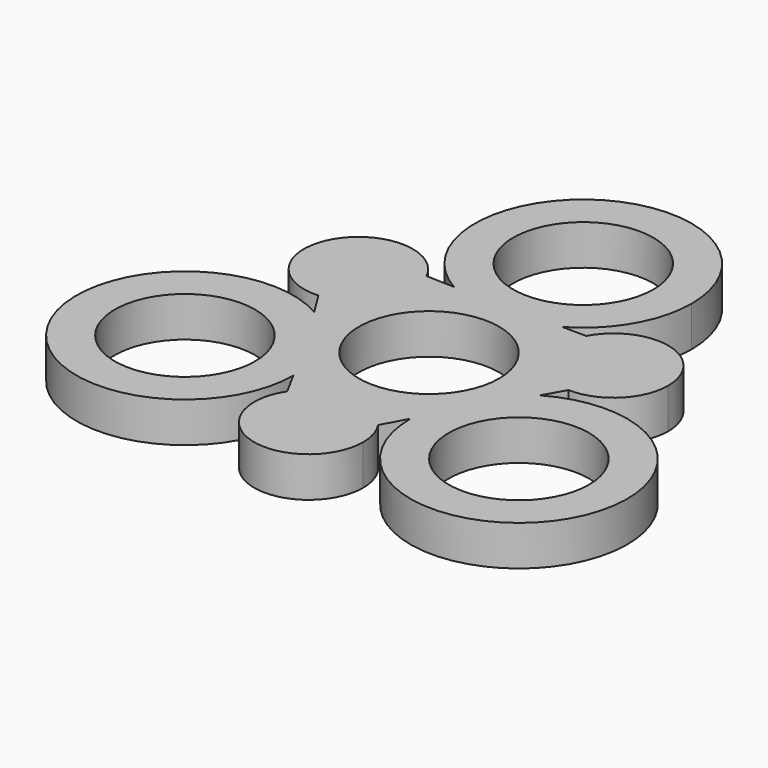
from build123d import *

# Parameters (mm, degrees)
F0_R     = 11.0871
F1_DEPTH = 6.35


with BuildPart() as f1:
    # F0 (on Top) → F1 (new body)
    with BuildSketch(Plane.XY):
        with BuildLine():
            ThreePointArc((-13.0339469136, 15.7934899008), (-20.444170701, 20.5882462787), (-28.1816676724, 16.341807074))
            Line((-28.1816676724, 16.341807074), (-13.0339469136, 15.7934899008))
        make_face()
        with BuildLine():
            ThreePointArc((-28.243253906, 16.2351365883), (-28.0520296472, 7.411048047), (-20.1945369253, 3.3909841884))
            Line((-20.1945369253, 3.3909841884), (-28.243253906, 16.2351365883))
        make_face()
        with BuildLine():
            Line((-28.243253906, 16.2351365883), (-20.1945369253, 3.3909841884))
            ThreePointArc((-20.1945369253, 3.3909841884), (-14.4717857453, 6.0963946326), (-12.1450531866, 11.9832819545))
            ThreePointArc((-12.1450531866, 11.9832819545), (-12.3702206875, 13.9395422038), (-13.0339469136, 15.7934899008))
            Line((-13.0339469136, 15.7934899008), (-28.1816676724, 16.341807074))
            ThreePointArc((-28.1816676724, 16.341807074), (-28.2126515284, 16.2885819545), (-28.243253906, 16.2351365883))
        make_face()
        with BuildLine():
            ThreePointArc((-17.8239543073, -0.3919944521), (-11.5484487595, -6.6675), (-9.2514543073, -15.24))
            Line((-9.2514543073, -15.24), (-7.1898620727, -19.049375442))
            ThreePointArc((-7.1898620727, -19.049375442), (0, -15.1767408002), (7.1898620727, -19.049375442))
            Line((7.1898620727, -19.049375442), (9.2514543073, -15.24))
            ThreePointArc((9.2514543073, -15.24), (11.5484487595, -6.6675), (17.8239543073, -0.3919944521))
            Line((17.8239543073, -0.3919944521), (19.694118844, 2.9259795547))
            ThreePointArc((19.694118844, 2.9259795547), (12.5170597213, 7.2267277996), (12.3810320473, 15.5926174467))
            Line((12.3810320473, 15.5926174467), (8.5725, 15.6319944521))
            ThreePointArc((8.5725, 15.6319944521), (0, 13.335), (-8.5725, 15.6319944521))
            Line((-8.5725, 15.6319944521), (-13.0339469136, 15.7934899008))
            ThreePointArc((-13.0339469136, 15.7934899008), (-12.3702206875, 13.9395422038), (-12.1450531866, 11.9832819545))
            ThreePointArc((-12.1450531866, 11.9832819545), (-14.4717857453, 6.0963946326), (-20.1945369253, 3.3909841884))
            Line((-20.1945369253, 3.3909841884), (-17.8239543073, -0.3919944521))
        make_face()
        Circle(F0_R, mode=Mode.SUBTRACT)
        with BuildLine():
            ThreePointArc((17.145, 30.48), (-8.5725, 45.3280055479), (-8.5725, 15.6319944521))
            ThreePointArc((-8.5725, 15.6319944521), (0, 13.335), (8.5725, 15.6319944521))
            ThreePointArc((8.5725, 15.6319944521), (14.8480055479, 21.9075), (17.145, 30.48))
        make_face()
        with Locations((0, 30.48)):
            Circle(F0_R, mode=Mode.SUBTRACT)
        with BuildLine():
            ThreePointArc((12.3810320473, 15.5926174467), (12.5170597213, 7.2267277996), (19.694118844, 2.9259795547))
            Line((19.694118844, 2.9259795547), (26.7498889727, 15.4440555992))
            Line((26.7498889727, 15.4440555992), (12.3810320473, 15.5926174467))
        make_face()
        with BuildLine():
            Line((26.7498889727, 15.4440555992), (19.694118844, 2.9259795547))
            ThreePointArc((19.694118844, 2.9259795547), (25.9628804733, 5.3452323043), (28.5846580632, 11.5320277996))
            ThreePointArc((28.5846580632, 11.5320277996), (22.0671326614, 19.8843610716), (12.3810320473, 15.5926174467))
            Line((12.3810320473, 15.5926174467), (26.7498889727, 15.4440555992))
        make_face()
        with BuildLine():
            ThreePointArc((17.8239543073, -0.3919944521), (11.5484487595, -6.6675), (9.2514543073, -15.24))
            ThreePointArc((9.2514543073, -15.24), (26.3964543073, -32.385), (43.5414543073, -15.24))
            ThreePointArc((43.5414543073, -15.24), (34.9689543073, -0.3919944521), (17.8239543073, -0.3919944521))
        make_face()
        with Locations((26.3964543073, -15.24)):
            Circle(F0_R, mode=Mode.SUBTRACT)
        with BuildLine():
            ThreePointArc((-17.8239543073, -0.3919944521), (-41.2444598552, -23.8125), (-9.2514543073, -15.24))
            ThreePointArc((-9.2514543073, -15.24), (-11.5484487595, -6.6675), (-17.8239543073, -0.3919944521))
        make_face()
        with Locations((-26.3964543073, -15.24)):
            Circle(F0_R, mode=Mode.SUBTRACT)
        with BuildLine():
            ThreePointArc((7.1898620727, -19.049375442), (0, -15.1767408002), (-7.1898620727, -19.049375442))
            Line((-7.1898620727, -19.049375442), (0, -32.3346816003))
            Line((0, -32.3346816003), (7.1898620727, -19.049375442))
        make_face()
        with BuildLine():
            Line((0, -32.3346816003), (-7.1898620727, -19.049375442))
            ThreePointArc((-7.1898620727, -19.049375442), (-2.4731969186, -32.0351119756), (8.6106, -23.7873408002))
            ThreePointArc((8.6106, -23.7873408002), (8.2477711754, -21.3141438815), (7.1898620727, -19.049375442))
            Line((7.1898620727, -19.049375442), (0, -32.3346816003))
        make_face()
    extrude(amount=F1_DEPTH)


solid = f1.part
